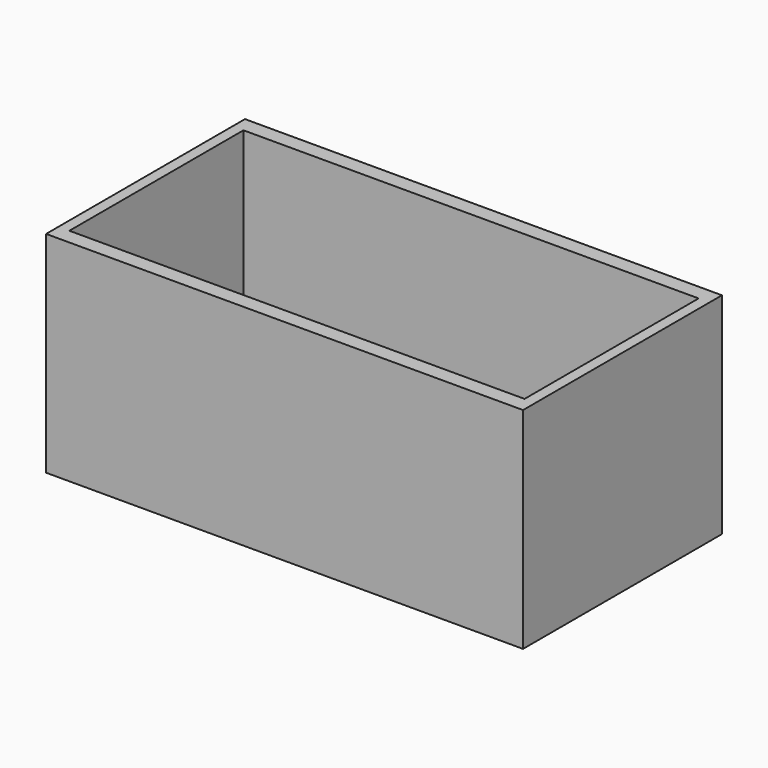
from build123d import *

# Parameters (mm, degrees)
F1_W     = 184.453368
F1_H     = 96.149274
F1_W_2   = 176.032186
F1_H_2   = 84.150702
F2_DEPTH = 81.313962


with BuildPart() as f2:
    # F1 (on face) → F2 (new body)
    with BuildSketch(Plane.XY):
        Rectangle(F1_W, F1_H)
        Rectangle(F1_W_2, F1_H_2, mode=Mode.SUBTRACT)
    extrude(amount=F2_DEPTH)


solid = f2.part
